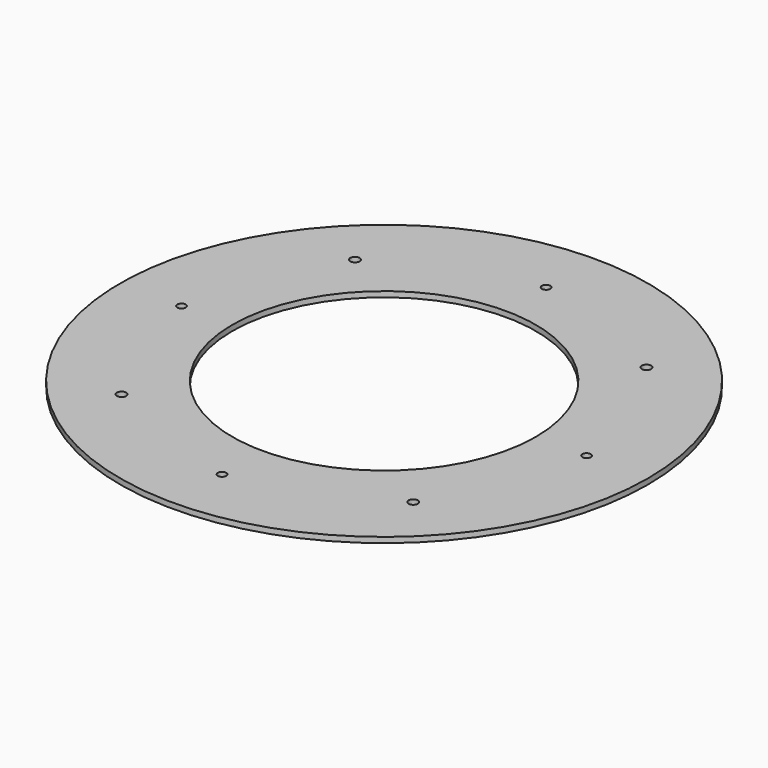
from build123d import *

# Parameters (mm, degrees)
F0_R     = 76.2
F0_R_2   = 1.35255
F0_R_3   = 1.2192
F0_R_4   = 43.815
F1_DEPTH = 1.5875


with BuildPart() as f1:
    # F0 (on Top) → F1 (new body)
    with BuildSketch(Plane.XY):
        Circle(F0_R)
        with Locations((-42.094951, -42.094951)):
            Circle(F0_R_2, mode=Mode.SUBTRACT)
        with Locations((0, -58.470448)):
            Circle(F0_R_3, mode=Mode.SUBTRACT)
        with Locations((42.094951, -42.094951)):
            Circle(F0_R_2, mode=Mode.SUBTRACT)
        with Locations((-58.470448, 0)):
            Circle(F0_R_3, mode=Mode.SUBTRACT)
        with Locations((-42.094951, 42.094951)):
            Circle(F0_R_2, mode=Mode.SUBTRACT)
        Circle(F0_R_4, mode=Mode.SUBTRACT)
        with Locations((58.470448, 0)):
            Circle(F0_R_3, mode=Mode.SUBTRACT)
        with Locations((0, 58.470448)):
            Circle(F0_R_3, mode=Mode.SUBTRACT)
        with Locations((42.094951, 42.094951)):
            Circle(F0_R_2, mode=Mode.SUBTRACT)
    extrude(amount=F1_DEPTH)


solid = f1.part
